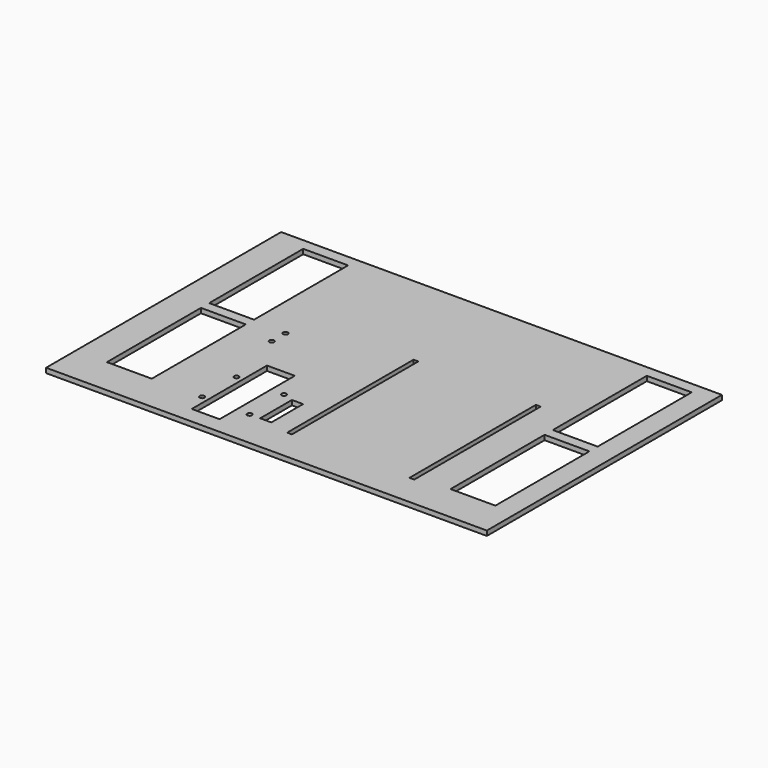
from build123d import *

# Parameters (mm, degrees)
F1_W     = 285.75
F1_H     = 190.5
F1_R     = 1.5494
F1_W_2   = 18.034
F1_H_2   = 60.96
F1_W_3   = 7.226892
F1_H_3   = 25.737308
F1_W_4   = 29.083
F1_H_4   = 76.2
F1_W_5   = 3.0988
F1_H_5   = 102.414822
F2_DEPTH = 3.0988


with BuildPart() as f2:
    # F1 (on face) → F2 (new body)
    with BuildSketch(Plane.XY):
        with Locations((-38.680092, -95.25)):
            Rectangle(F1_W, F1_H)
        with Locations((-99.931192, -166.0906)):
            Circle(F1_R, mode=Mode.SUBTRACT)
        with Locations((-86.723192, -149.2377)):
            Rectangle(F1_W_2, F1_H_2, mode=Mode.SUBTRACT)
        with Locations((-69.146392, -166.0906)):
            Circle(F1_R, mode=Mode.SUBTRACT)
        with Locations((-58.674946, -153.221946)):
            Rectangle(F1_W_3, F1_H_3, mode=Mode.SUBTRACT)
        with Locations((-146.794192, -128.380313)):
            Rectangle(F1_W_4, F1_H_4, mode=Mode.SUBTRACT)
        with Locations((-110.472192, -96.5073)):
            Circle(F1_R, mode=Mode.SUBTRACT)
        with Locations((-99.931192, -138.1506)):
            Circle(F1_R, mode=Mode.SUBTRACT)
        with Locations((-69.146392, -138.1506)):
            Circle(F1_R, mode=Mode.SUBTRACT)
        with Locations((-40.252562, -118.60587)):
            Rectangle(F1_W_5, F1_H_5, mode=Mode.SUBTRACT)
        with Locations((75.973835, -128.380313)):
            Rectangle(F1_W_4, F1_H_4, mode=Mode.SUBTRACT)
        with Locations((39.046238, -118.60587)):
            Rectangle(F1_W_5, F1_H_5, mode=Mode.SUBTRACT)
        with Locations((-110.472192, -85.2932)):
            Circle(F1_R, mode=Mode.SUBTRACT)
        with Locations((-146.794192, -45.493023)):
            Rectangle(F1_W_4, F1_H_4, mode=Mode.SUBTRACT)
        with Locations((75.973835, -45.493023)):
            Rectangle(F1_W_4, F1_H_4, mode=Mode.SUBTRACT)
    extrude(amount=F2_DEPTH)


solid = f2.part
